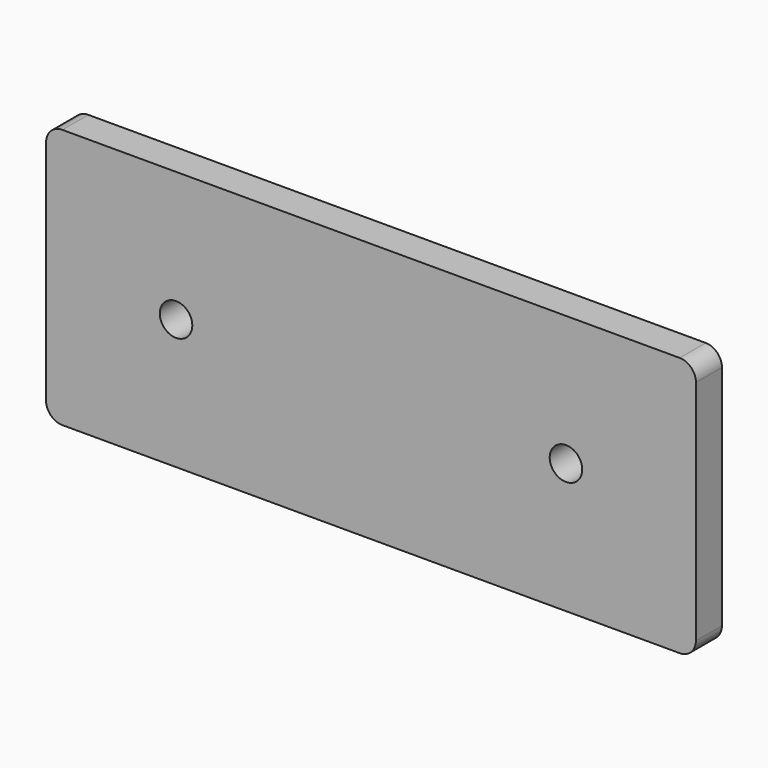
from build123d import *

# Parameters (mm, degrees)
F0_W     = 254
F0_H     = 101.6
F0_R     = 6.35
F1_DEPTH = 12.7
F2_R     = 6.35


with BuildPart() as f1:
    # F0 (on Front) → F1 (new body)
    with BuildSketch(Plane.XZ):
        with Locations((127, 50.8)):
            Rectangle(F0_W, F0_H)
        with Locations((50.8, 50.8)):
            Circle(F0_R, mode=Mode.SUBTRACT)
        with Locations((203.2, 50.8)):
            Circle(F0_R, mode=Mode.SUBTRACT)
    extrude(amount=F1_DEPTH)

    # F2
    f2_edges = [f1.edges().sort_by_distance(p)[0] for p in [
        (0, -6.35, 101.6),
        (0, -6.35, 0),
        (254, -6.35, 101.6),
        (254, -6.35, 0),
    ]]
    fillet(f2_edges, radius=F2_R)


solid = f1.part
